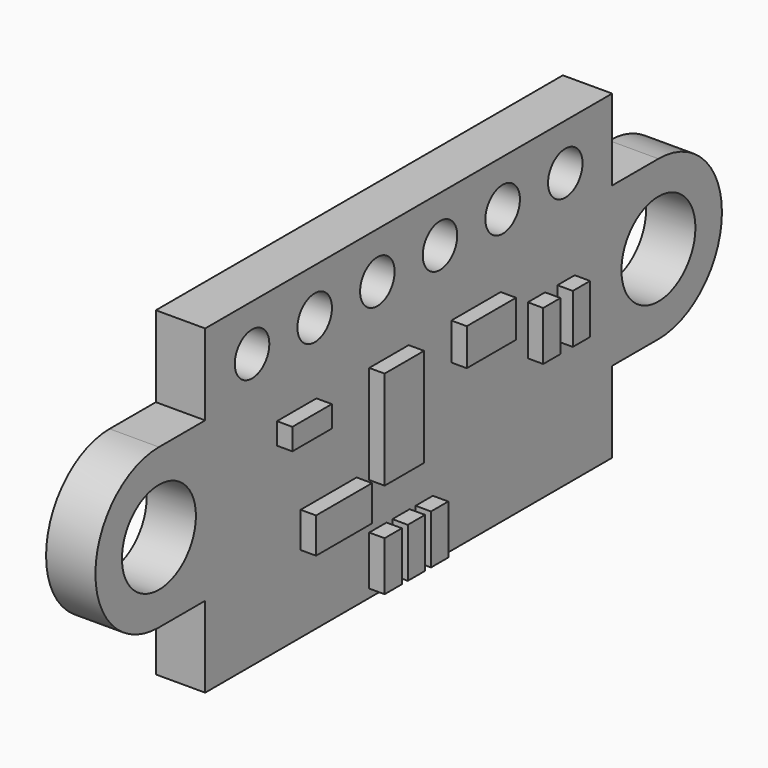
from build123d import *

# Parameters (mm, degrees)
PAD_DEPTH            = 1.6
SKETCH001_R          = 1.5
POCKET_DEPTH         = 1.6
SKETCH002_W          = 4.4
SKETCH002_H          = 2.35
PAD001_DEPTH         = 1
SKETCH003_W          = 2.27
SKETCH003_H          = 1.15
SKETCH003_W_2        = 1.6
SKETCH003_H_2        = 3.2
SKETCH003_W_3        = 2
SKETCH003_H_3        = 1.2
SKETCH003_W_4        = 0.7
SKETCH003_H_4        = 1.6
SKETCH003_H_5        = 0.7
PAD002_DEPTH         = 0.5
SKETCH004_R          = 0.7
POCKET001_DEPTH      = 1.6
BODY_ROLL_ANGLE      = -180
BODY_PLACEMENT_ANGLE = 90


with BuildPart() as part:
    # Sketch → Pad (new body)
    with BuildSketch(Plane.XZ):
        Polygon((-8.25, -5.2), (8.25, -5.2), (8.25, -2.575), (12.75, -2.575), (12.75, 2.575), (8.25, 2.575), (8.25, 5.2), (-8.25, 5.2), (-8.25, 2.575), (-12.75, 2.575), (-12.75, -2.575), (-8.25, -2.575), align=None)
    extrude(amount=PAD_DEPTH)

    # Sketch001 (on Face14 of Pad) → Pocket (cut)
    with BuildSketch(Plane.XZ.offset(1.6)):
        with Locations((-10.125, 0)):
            Circle(SKETCH001_R)
        with Locations((10.125, 0)):
            Circle(SKETCH001_R)
        with BuildLine():
            Line((-12.755, 2.575), (-12.755, -2.575))
            Line((-12.755, -2.575), (-10.125, -2.575))
            ThreePointArc((-10.125, 2.575), (-12.7, 0), (-10.125, -2.575))
            Line((-10.125, 2.575), (-12.755, 2.575))
        make_face()
        with BuildLine():
            Line((10.125, -2.575), (12.755, -2.575))
            Line((12.755, -2.575), (12.755, 2.575))
            Line((12.755, 2.575), (10.125, 2.575))
            ThreePointArc((10.125, -2.575), (12.7, 0), (10.125, 2.575))
        make_face()
    extrude(amount=-POCKET_DEPTH, mode=Mode.SUBTRACT)

    # Sketch002 (on Face4 of Pocket) → Pad001 (join)
    with BuildSketch(Plane.XZ.offset(1.6)):
        with Locations((0, 2.475)):
            Rectangle(SKETCH002_W, SKETCH002_H)
    extrude(amount=PAD001_DEPTH)

    # Sketch003 (on Face2 of Pad001) → Pad002 (join)
    with BuildSketch(Plane(origin=(0, 0, 0), x_dir=(1, 0, 0), z_dir=(0, 1, 0))):
        with Locations((-3.245, -2.125)):
            Rectangle(SKETCH003_W, SKETCH003_H)
        with Locations((-0.8, -0.23)):
            Rectangle(SKETCH003_W_2, SKETCH003_H_2)
        with Locations((2.73, 0.77)):
            Rectangle(SKETCH003_W_3, SKETCH003_H_3)
        with Locations((-1.25, -4.13)):
            Rectangle(SKETCH003_W_4, SKETCH003_H_4)
        with Locations((-0.31, -4.13)):
            Rectangle(SKETCH003_W_4, SKETCH003_H_4)
        with Locations((0.63, -4.13)):
            Rectangle(SKETCH003_W_4, SKETCH003_H_4)
        with Locations((-4.54, 1.02)):
            Rectangle(SKETCH003_W_2, SKETCH003_H_5)
        with Locations((5.18, -0.17)):
            Rectangle(SKETCH003_W_4, SKETCH003_H_4)
        with Locations((6.38, -0.17)):
            Rectangle(SKETCH003_W_4, SKETCH003_H_4)
    extrude(amount=PAD002_DEPTH)

    # Sketch004 (on Face2 of Pad002) → Pocket001 (cut)
    with BuildSketch(Plane(origin=(0, 0, 0), x_dir=(1, 0, 0), z_dir=(0, 1, 0))):
        with Locations((-6.35, 3.7)):
            Circle(SKETCH004_R)
        with Locations((-3.81, 3.7)):
            Circle(SKETCH004_R)
        with Locations((-1.27, 3.7)):
            Circle(SKETCH004_R)
        with Locations((1.27, 3.7)):
            Circle(SKETCH004_R)
        with Locations((3.81, 3.7)):
            Circle(SKETCH004_R)
        with Locations((6.35, 3.7)):
            Circle(SKETCH004_R)
    extrude(amount=-POCKET001_DEPTH, mode=Mode.SUBTRACT)


with BuildPart() as part_1:
    # Body roll: moved
    add(part.part.rotate(Axis((0, 0, 0), (1, 0, 0)), BODY_ROLL_ANGLE))


with BuildPart() as part_2:
    # Body placement: moved
    add(part_1.part.moved(Location((17.5, -0.75, 41))).rotate(Axis((17.5, -0.75, 41), (0, 0, 1)), BODY_PLACEMENT_ANGLE))


solid = part_2.part
